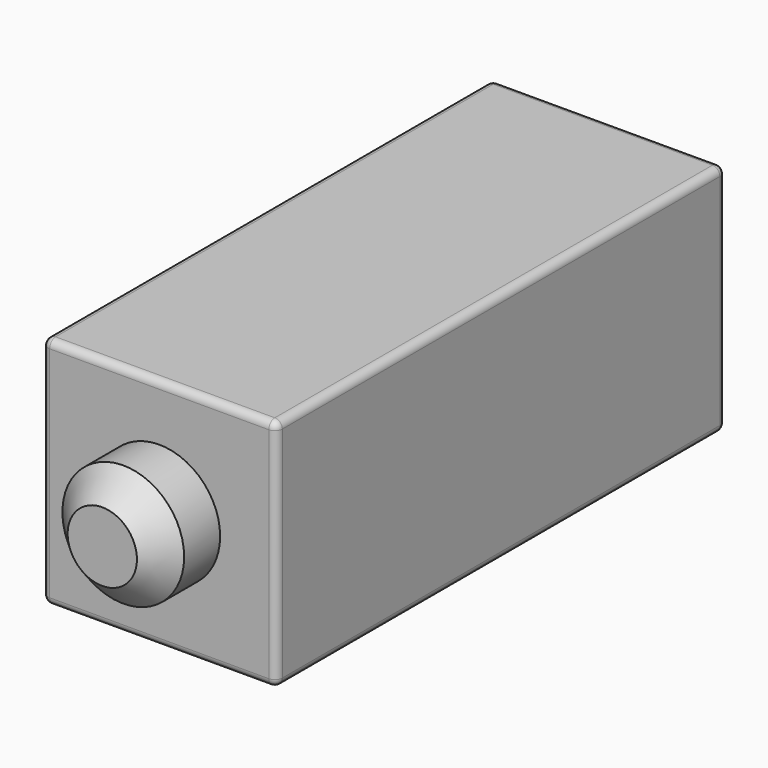
from build123d import *

# Parameters (mm, degrees)
F0_W     = 15.875
F0_H     = 15.875
F1_DEPTH = 38.1
F2_R     = 4.1275
F3_DEPTH = 4.826
F4_SIZE  = 1.778
F5_T     = -1.5875
F6_R     = 0.508


with BuildPart() as f1:
    # F0 (on Front) → F1 (new body)
    with BuildSketch(Plane.XZ):
        Rectangle(F0_W, F0_H)
    extrude(amount=F1_DEPTH)

    # F2 (on face) → F3 (join)
    with BuildSketch(Plane.XZ.offset(38.1)):
        Circle(F2_R)
    extrude(amount=F3_DEPTH)

    # F4
    f4_edges = [f1.edges().sort_by_distance(p)[0] for p in [
        (-4.1275, -42.926, 0),
    ]]
    chamfer(f4_edges, length=F4_SIZE)

    # F5
    f5_openings = [f1.faces().sort_by_distance(p)[0] for p in [
        (0, 0, 0),
    ]]
    offset(amount=F5_T, openings=f5_openings, kind=Kind.INTERSECTION)

    # F6
    f6_edges = [f1.edges().sort_by_distance(p)[0] for p in [
        (0, -38.1, 7.9375),
        (-7.9375, -38.1, 0),
        (0, -38.1, -7.9375),
        (7.9375, -38.1, 0),
        (-7.9375, -19.05, 7.9375),
        (-7.9375, -19.05, -7.9375),
        (7.9375, -19.05, 7.9375),
        (7.9375, -19.05, -7.9375),
        (0, 0, -7.9375),
        (7.9375, 0, 0),
        (0, 0, 7.9375),
        (-7.9375, 0, 0),
    ]]
    fillet(f6_edges, radius=F6_R)


solid = f1.part
